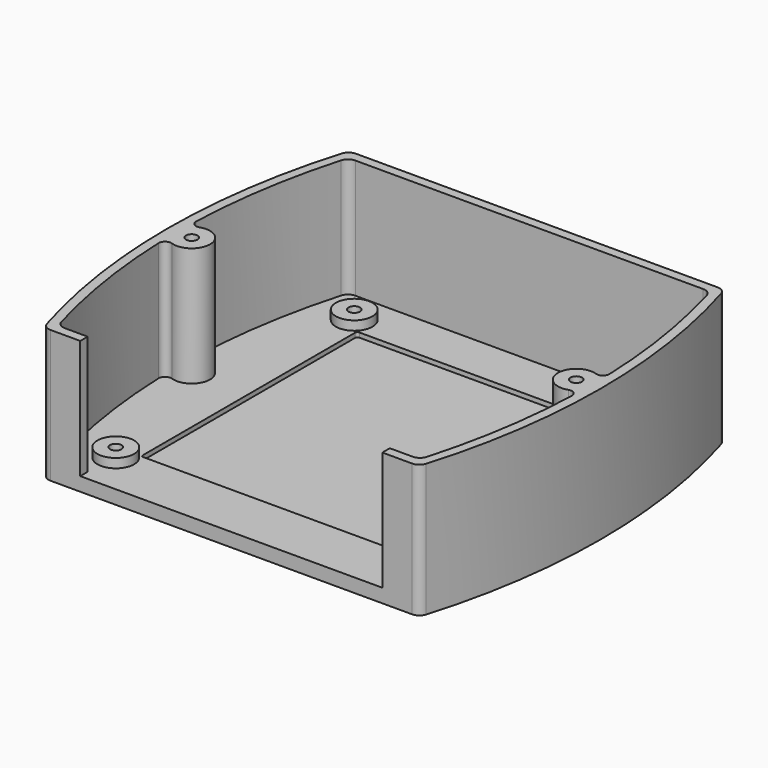
from build123d import *

# Parameters (mm, degrees)
PAD_DEPTH       = 29
POCKET_DEPTH    = 26
SKETCH004_R     = 4
PAD001_DEPTH    = 2
SKETCH005_R     = 1.25
POCKET001_DEPTH = 5
SKETCH006_R     = 1.25
POCKET002_DEPTH = 29
POCKET003_DEPTH = 1


with BuildPart() as part:
    # Sketch002 → Pad (new body)
    with BuildSketch(Plane.XY):
        with BuildLine():
            ThreePointArc((-41.415471, 40.271018), (-47.332493, 0), (-41.415471, -40.271018))
            ThreePointArc((-41.415471, -40.271018), (-40.693608, -41.300492), (-39.5, -41.695718))
            Line((-39.5, -41.695718), (39.5, -41.695718))
            ThreePointArc((39.5, -41.695718), (40.693608, -41.300492), (41.415471, -40.271018))
            ThreePointArc((41.415471, -40.271018), (47.332493, 0), (41.415471, 40.271018))
            ThreePointArc((41.415471, 40.271018), (40.693608, 41.300492), (39.5, 41.695718))
            Line((-39.5, 41.695718), (39.5, 41.695718))
            ThreePointArc((-39.5, 41.695718), (-40.693608, 41.300492), (-41.415471, 40.271018))
        make_face()
    extrude(amount=PAD_DEPTH)

    # Sketch003 → Pocket (cut)
    with BuildSketch(Plane.XY.offset(29)):
        with BuildLine():
            ThreePointArc((-39.924087, -38.205452), (-39.205905, -39.255214), (-38, -39.65966))
            Line((-38, -39.65966), (-33, -39.65966))
            Line((-33, -39.65966), (-33, -42.65966))
            Line((-33, -42.65966), (33, -42.65966))
            Line((33, -42.65966), (33, -39.65966))
            Line((33, -39.65966), (38, -39.65966))
            ThreePointArc((38, -39.65966), (39.205905, -39.255214), (39.924087, -38.205452))
            ThreePointArc((39.924087, -38.205452), (43.523931, -21.840329), (45.142785, -5.162336))
            ThreePointArc((45.142785, -5.162336), (44.579177, -3.987307), (43.291657, -3.785713))
            ThreePointArc((43.291657, 3.785713), (38, 0), (43.291657, -3.785713))
            ThreePointArc((43.291657, 3.785713), (44.579177, 3.987307), (45.142785, 5.162336))
            ThreePointArc((45.142785, 5.162336), (43.523931, 21.840329), (39.924087, 38.205452))
            ThreePointArc((39.924087, 38.205452), (39.205905, 39.255214), (38, 39.65966))
            Line((-38, 39.65966), (38, 39.65966))
            ThreePointArc((-38, 39.65966), (-39.205905, 39.255214), (-39.924087, 38.205452))
            ThreePointArc((-39.924087, 38.205452), (-43.523931, 21.840329), (-45.142785, 5.162336))
            ThreePointArc((-45.142785, 5.162336), (-44.579177, 3.987307), (-43.291657, 3.785713))
            ThreePointArc((-43.291657, -3.785713), (-38, 0), (-43.291657, 3.785713))
            ThreePointArc((-43.291657, -3.785713), (-44.579177, -3.987307), (-45.142785, -5.162336))
            ThreePointArc((-45.142785, -5.162336), (-43.523931, -21.840329), (-39.924087, -38.205452))
        make_face()
    extrude(amount=-POCKET_DEPTH, mode=Mode.SUBTRACT)

    # Sketch004 → Pad001 (new body)
    with BuildSketch(Plane.XY.offset(3)):
        with Locations((-32.55, 32.55)):
            Circle(SKETCH004_R)
        with Locations((32.55, 32.55)):
            Circle(SKETCH004_R)
        with Locations((32.55, -32.55)):
            Circle(SKETCH004_R)
        with Locations((-32.55, -32.55)):
            Circle(SKETCH004_R)
    extrude(amount=PAD001_DEPTH)

    # Sketch005 → Pocket001 (cut)
    with BuildSketch(Plane(origin=(0, 0, 0), x_dir=(1, 0, 0), z_dir=(0, 0, -1))):
        with Locations((-32.55, 32.55)):
            Circle(SKETCH005_R)
        with Locations((32.55, 32.55)):
            Circle(SKETCH005_R)
        with Locations((32.55, -32.55)):
            Circle(SKETCH005_R)
        with Locations((-32.55, -32.55)):
            Circle(SKETCH005_R)
    extrude(amount=-POCKET001_DEPTH, mode=Mode.SUBTRACT)

    # Sketch006 → Pocket002 (cut)
    with BuildSketch(Plane(origin=(0, 0, 0), x_dir=(1, 0, 0), z_dir=(0, 0, -1))):
        with Locations((-42, 0)):
            Circle(SKETCH006_R)
        with Locations((42, 0)):
            Circle(SKETCH006_R)
    extrude(amount=-POCKET002_DEPTH, mode=Mode.SUBTRACT)

    # Sketch008 → Pocket003 (cut)
    with BuildSketch(Plane.XY.offset(3)):
        with BuildLine():
            Line((-28.991378, 29.491378), (28.991378, 29.491378))
            ThreePointArc((29.491378, 28.991378), (29.344931, 29.344931), (28.991378, 29.491378))
            Line((29.491378, 28.991378), (29.491378, -28.991378))
            ThreePointArc((28.991378, -29.491378), (29.344931, -29.344931), (29.491378, -28.991378))
            Line((28.991378, -29.491378), (-28.991378, -29.491378))
            ThreePointArc((-29.491378, -28.991378), (-29.344931, -29.344931), (-28.991378, -29.491378))
            Line((-29.491378, -28.991378), (-29.491378, 28.991378))
            ThreePointArc((-28.991378, 29.491378), (-29.344931, 29.344931), (-29.491378, 28.991378))
        make_face()
    extrude(amount=-POCKET003_DEPTH, mode=Mode.SUBTRACT)


solid = part.part
